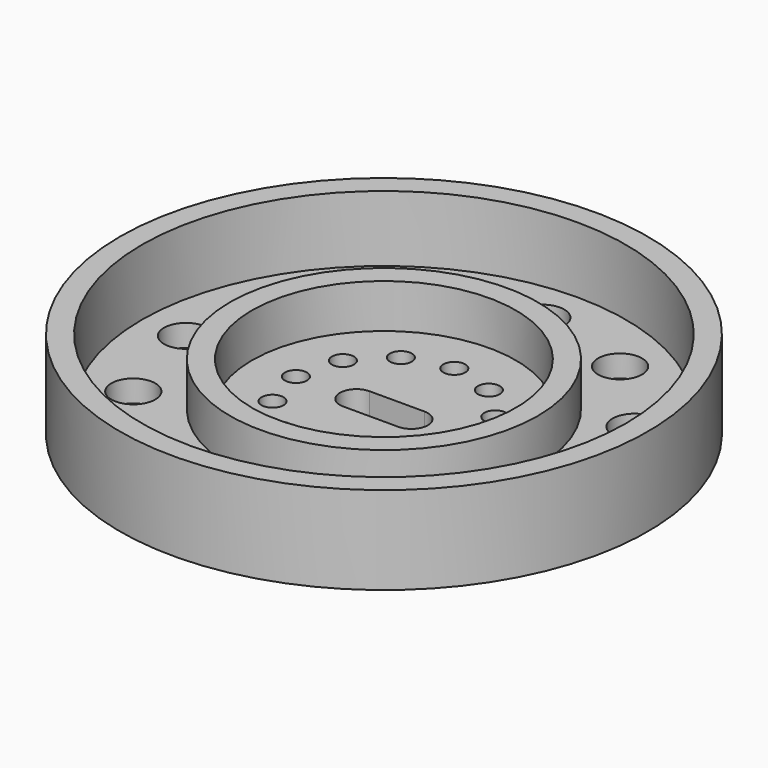
from build123d import *

# Parameters (mm, degrees)
F0_W     = 6.35
F0_H     = 12.7
F0_H_2   = 19.05
F2_R     = 6.35
F2_R_2   = 3.175
F3_DEPTH = 6.351


with BuildPart() as f1:
    # F0 (on Front) → F1 (revolve)
    with BuildSketch(Plane.XZ):
        Polygon((-76.2, 0), (0, 0), (0, 6.35), (-38.1, 6.35), (-44.45, 6.35), (-69.85, 6.35), (-76.2, 6.35), align=None)
        with Locations((-41.275, 12.7)):
            Rectangle(F0_W, F0_H)
        with Locations((-73.025, 15.875)):
            Rectangle(F0_W, F0_H_2)
    revolve(axis=Axis((0, 0, 3.175), (0, 0, 1)))

    # F2 (on face) → F3 (cut, through all)
    with BuildSketch(Plane.XY.offset(6.35)):
        with Locations((0, 57.15)):
            Circle(F2_R)
        with Locations((0, 25.4)):
            Circle(F2_R_2)
        with Locations((28.575, 49.493352)):
            Circle(F2_R)
        with Locations((12.7, 21.997045)):
            Circle(F2_R_2)
        with Locations((49.493352, 28.575)):
            Circle(F2_R)
        with Locations((21.997045, 12.7)):
            Circle(F2_R_2)
        with Locations((57.15, 0)):
            Circle(F2_R)
        with Locations((25.4, 0)):
            Circle(F2_R_2)
        with Locations((49.493352, -28.575)):
            Circle(F2_R)
        with Locations((21.997045, -12.7)):
            Circle(F2_R_2)
        with Locations((28.575, -49.493352)):
            Circle(F2_R)
        with Locations((12.7, -21.997045)):
            Circle(F2_R_2)
        with Locations((0, -57.15)):
            Circle(F2_R)
        with Locations((0, -25.4)):
            Circle(F2_R_2)
        with Locations((-28.575, -49.493352)):
            Circle(F2_R)
        with Locations((-12.7, -21.997045)):
            Circle(F2_R_2)
        with Locations((-49.493352, -28.575)):
            Circle(F2_R)
        with Locations((-21.997045, -12.7)):
            Circle(F2_R_2)
        with Locations((-57.15, 0)):
            Circle(F2_R)
        with Locations((-25.4, 0)):
            Circle(F2_R_2)
        with Locations((-49.493352, 28.575)):
            Circle(F2_R)
        with Locations((-21.997045, 12.7)):
            Circle(F2_R_2)
        with Locations((-28.575, 49.493352)):
            Circle(F2_R)
        with Locations((-12.7, 21.997045)):
            Circle(F2_R_2)
        with BuildLine():
            ThreePointArc((-7.9375, 4.7625), (-12.7, 0), (-7.9375, -4.7625))
            Line((-7.9375, -4.7625), (7.9375, -4.7625))
            ThreePointArc((7.9375, -4.7625), (12.7, 0), (7.9375, 4.7625))
            Line((7.9375, 4.7625), (-7.9375, 4.7625))
        make_face()
    extrude(amount=-F3_DEPTH, mode=Mode.SUBTRACT)


solid = f1.part
